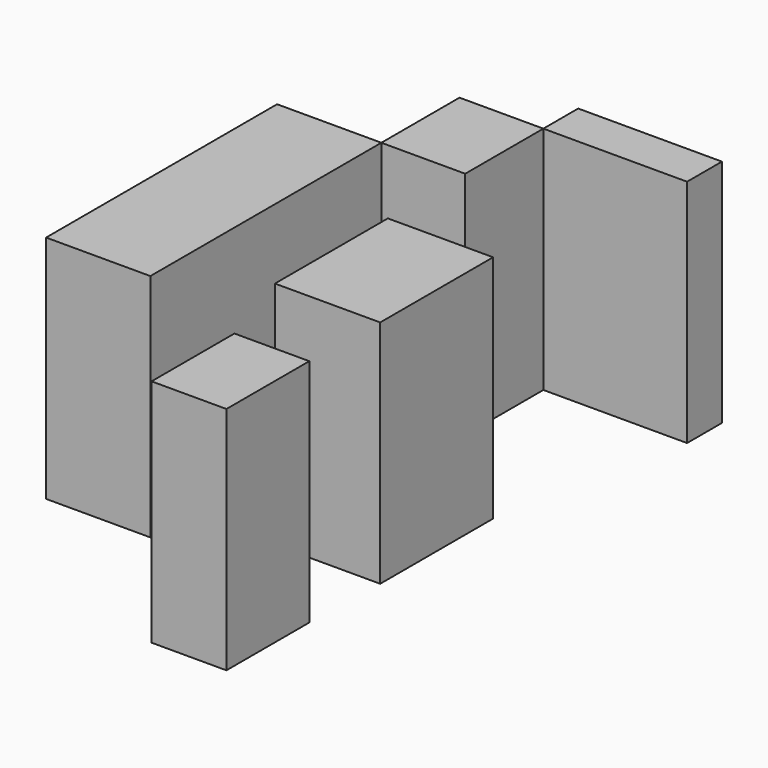
from build123d import *

# Parameters (mm, degrees)
F0_W     = 28.1920060515
F0_H     = 78.0604481697
F1_DEPTH = 62.2041933239
F0_W_2   = 22.672533989
F0_H_2   = 26.404581964
F0_W_3   = 38.8558357954
F0_H_3   = 11.7763727903
F0_W_4   = 22.1070865333
F0_H_4   = 38.1543785334
F0_W_5   = 6.35
F0_W_6   = 20.2417038381
F0_H_5   = 27.9998555779


with BuildPart() as f1:
    # F0 (on Top) → F1 (new body)
    with BuildSketch(Plane.XY):
        with Locations((-36.7685370147, -12.88125664)):
            Rectangle(F0_W, F0_H)
    extrude(amount=F1_DEPTH)


with BuildPart() as f1b:
    # F0 (on Top) → F1, piece 2 (new body)
    with BuildSketch(Plane.XY):
        with Locations((-11.3362669945, 39.3512584269)):
            Rectangle(F0_W_2, F0_H_2)
    extrude(amount=F1_DEPTH)


with BuildPart() as f1c:
    # F0 (on Top) → F1, piece 3 (new body)
    with BuildSketch(Plane.XY):
        with Locations((19.4279178977, 58.4417358041)):
            Rectangle(F0_W_3, F0_H_3)
    extrude(amount=F1_DEPTH)


with BuildPart() as f1d:
    # F0 (on Top) → F1, piece 4 (new body)
    with BuildSketch(Plane.XY):
        with Locations((11.0535432667, -19.0771892667)):
            Rectangle(F0_W_4, F0_H_4)
        with Locations((25.2820865333, -19.0771892667)):
            Rectangle(F0_W_5, F0_H_4)
    extrude(amount=F1_DEPTH)


with BuildPart() as f1e:
    # F0 (on Top) → F1, piece 5 (new body)
    with BuildSketch(Plane.XY):
        with Locations((17.7113395184, -75.3347910941)):
            Rectangle(F0_W_6, F0_H_5)
    extrude(amount=F1_DEPTH)


solid = Compound([f1.part, f1b.part, f1c.part, f1d.part, f1e.part])
